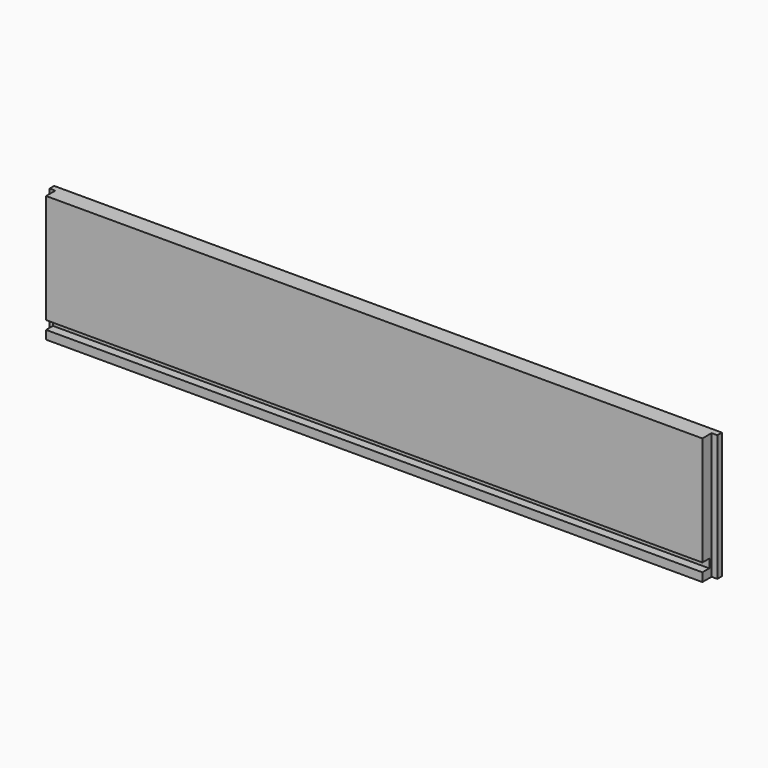
from build123d import *

# Parameters (mm, degrees)
SKETCH069_W             = 464.6
SKETCH069_H             = 88
PAD025_DEPTH            = 12
SKETCH070_W             = 4
SKETCH070_H             = 88
POCKET042_DEPTH         = 8
SKETCH071_W             = 456.6
SKETCH071_H             = 6
POCKET043_DEPTH         = 6
BODY024_ROLL_ANGLE      = 90
BODY024_PLACEMENT_ANGLE = 180


with BuildPart() as part:
    # Sketch069 → Pad025 (new body)
    with BuildSketch(Plane.XY):
        with Locations((0, 44)):
            Rectangle(SKETCH069_W, SKETCH069_H)
    extrude(amount=PAD025_DEPTH)

    # Sketch070 (on Face5 of Pad025) → Pocket042 (cut)
    with BuildSketch(Plane(origin=(0, 0, 0), x_dir=(1, 0, 0), z_dir=(0, 0, -1))):
        with Locations((-230.3, -44)):
            Rectangle(SKETCH070_W, SKETCH070_H)
    pocket042 = extrude(amount=-POCKET042_DEPTH, mode=Mode.SUBTRACT)

    # Mirrored016: Pocket042 across Sketch070 V_Axis
    add(pocket042.mirror(Plane(origin=(0, 0, 0), x_dir=(0, 0, -1), z_dir=(1, 0, 0))), mode=Mode.SUBTRACT)

    # Sketch071 (on Face3 of Mirrored016) → Pocket043 (cut)
    with BuildSketch(Plane(origin=(0, 0, 0), x_dir=(1, 0, 0), z_dir=(0, 0, -1))):
        with Locations((0, -9)):
            Rectangle(SKETCH071_W, SKETCH071_H)
    extrude(amount=-POCKET043_DEPTH, mode=Mode.SUBTRACT)


with BuildPart() as part_1:
    # Body024 roll: moved
    add(part.part.rotate(Axis((0, 0, 0), (1, 0, 0)), BODY024_ROLL_ANGLE))


with BuildPart() as part_2:
    # Body024 placement: moved
    add(part_1.part.moved(Location((0, 356, 0))).rotate(Axis((0, 356, 0), (0, 0, 1)), BODY024_PLACEMENT_ANGLE))


solid = part_2.part
